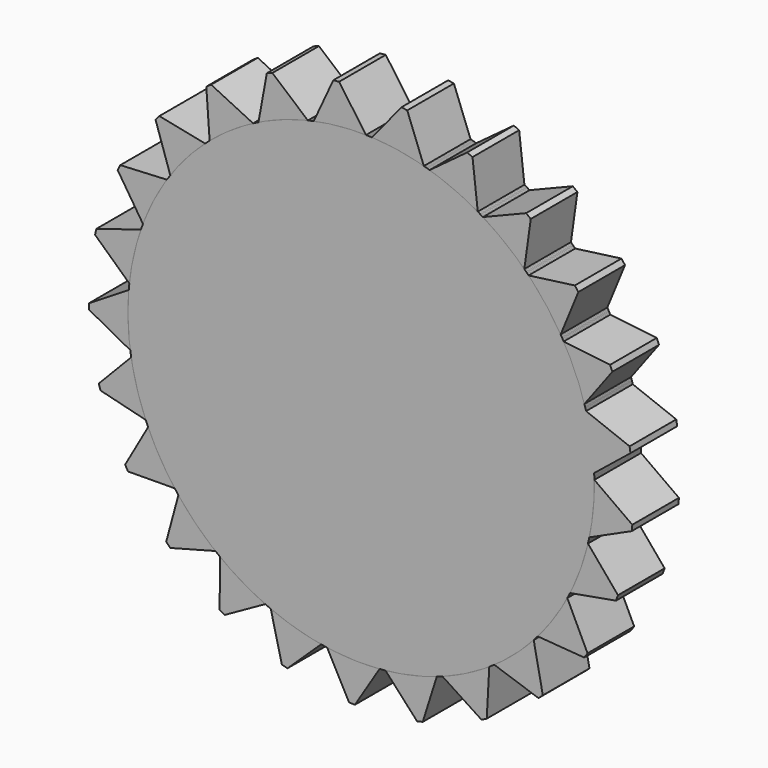
from build123d import *

# Parameters (mm, degrees)
F1_DEPTH = 25.4
F2_COUNT = 25


with BuildPart() as f1:
    # F0 (on Front) → F1 (new body)
    with BuildSketch(Plane.XZ):
        with BuildLine():
            Line((118.122094, -10.174231), (101.586824, 1.63624))
            ThreePointArc((101.586824, 1.63624), (-101.125999, 9.802665), (99.381224, -21.117109))
            Line((99.381224, -21.117109), (117.877027, -12.702381))
            Line((117.877027, -12.702381), (118.122094, -10.174231))
        make_face()
    extrude(amount=F1_DEPTH)


with BuildPart() as f2_1:
    # F2: instance of F1
    add(f1.part.rotate(Axis((0, 0, 0), (0, 1, 0)), 1 * 360 / F2_COUNT))


with BuildPart() as f2_2:
    # F2: instance of F1
    add(f1.part.rotate(Axis((0, 0, 0), (0, 1, 0)), 2 * 360 / F2_COUNT))


with BuildPart() as f2_3:
    # F2: instance of F1
    add(f1.part.rotate(Axis((0, 0, 0), (0, 1, 0)), 3 * 360 / F2_COUNT))


with BuildPart() as f2_4:
    # F2: instance of F1
    add(f1.part.rotate(Axis((0, 0, 0), (0, 1, 0)), 4 * 360 / F2_COUNT))


with BuildPart() as f2_5:
    # F2: instance of F1
    add(f1.part.rotate(Axis((0, 0, 0), (0, 1, 0)), 5 * 360 / F2_COUNT))


with BuildPart() as f2_6:
    # F2: instance of F1
    add(f1.part.rotate(Axis((0, 0, 0), (0, 1, 0)), 6 * 360 / F2_COUNT))


with BuildPart() as f2_7:
    # F2: instance of F1
    add(f1.part.rotate(Axis((0, 0, 0), (0, 1, 0)), 7 * 360 / F2_COUNT))


with BuildPart() as f2_8:
    # F2: instance of F1
    add(f1.part.rotate(Axis((0, 0, 0), (0, 1, 0)), 8 * 360 / F2_COUNT))


with BuildPart() as f2_9:
    # F2: instance of F1
    add(f1.part.rotate(Axis((0, 0, 0), (0, 1, 0)), 9 * 360 / F2_COUNT))


with BuildPart() as f2_10:
    # F2: instance of F1
    add(f1.part.rotate(Axis((0, 0, 0), (0, 1, 0)), 10 * 360 / F2_COUNT))


with BuildPart() as f2_11:
    # F2: instance of F1
    add(f1.part.rotate(Axis((0, 0, 0), (0, 1, 0)), 11 * 360 / F2_COUNT))


with BuildPart() as f2_12:
    # F2: instance of F1
    add(f1.part.rotate(Axis((0, 0, 0), (0, 1, 0)), 12 * 360 / F2_COUNT))


with BuildPart() as f2_13:
    # F2: instance of F1
    add(f1.part.rotate(Axis((0, 0, 0), (0, 1, 0)), 13 * 360 / F2_COUNT))


with BuildPart() as f2_14:
    # F2: instance of F1
    add(f1.part.rotate(Axis((0, 0, 0), (0, 1, 0)), 14 * 360 / F2_COUNT))


with BuildPart() as f2_15:
    # F2: instance of F1
    add(f1.part.rotate(Axis((0, 0, 0), (0, 1, 0)), 15 * 360 / F2_COUNT))


with BuildPart() as f2_16:
    # F2: instance of F1
    add(f1.part.rotate(Axis((0, 0, 0), (0, 1, 0)), 16 * 360 / F2_COUNT))


with BuildPart() as f2_17:
    # F2: instance of F1
    add(f1.part.rotate(Axis((0, 0, 0), (0, 1, 0)), 17 * 360 / F2_COUNT))


with BuildPart() as f2_18:
    # F2: instance of F1
    add(f1.part.rotate(Axis((0, 0, 0), (0, 1, 0)), 18 * 360 / F2_COUNT))


with BuildPart() as f2_19:
    # F2: instance of F1
    add(f1.part.rotate(Axis((0, 0, 0), (0, 1, 0)), 19 * 360 / F2_COUNT))


with BuildPart() as f2_20:
    # F2: instance of F1
    add(f1.part.rotate(Axis((0, 0, 0), (0, 1, 0)), 20 * 360 / F2_COUNT))


with BuildPart() as f2_21:
    # F2: instance of F1
    add(f1.part.rotate(Axis((0, 0, 0), (0, 1, 0)), 21 * 360 / F2_COUNT))


with BuildPart() as f2_22:
    # F2: instance of F1
    add(f1.part.rotate(Axis((0, 0, 0), (0, 1, 0)), 22 * 360 / F2_COUNT))


with BuildPart() as f2_23:
    # F2: instance of F1
    add(f1.part.rotate(Axis((0, 0, 0), (0, 1, 0)), 23 * 360 / F2_COUNT))


with BuildPart() as f2_24:
    # F2: instance of F1
    add(f1.part.rotate(Axis((0, 0, 0), (0, 1, 0)), 24 * 360 / F2_COUNT))


solid = Compound([f1.part, f2_1.part, f2_2.part, f2_3.part, f2_4.part, f2_5.part, f2_6.part, f2_7.part, f2_8.part, f2_9.part, f2_10.part, f2_11.part, f2_12.part, f2_13.part, f2_14.part, f2_15.part, f2_16.part, f2_17.part, f2_18.part, f2_19.part, f2_20.part, f2_21.part, f2_22.part, f2_23.part, f2_24.part])
